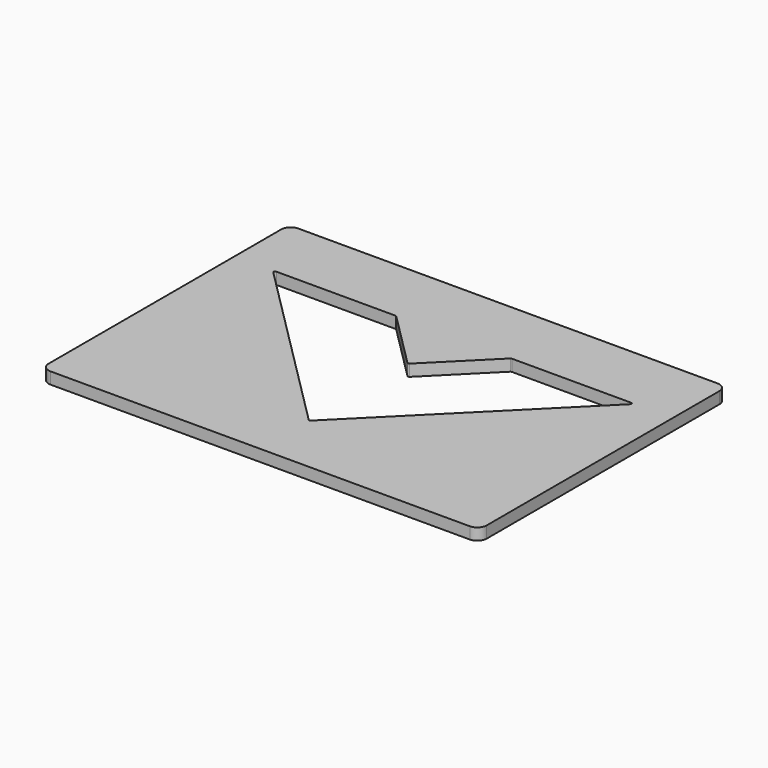
from build123d import *

# Parameters (mm, degrees)
F1_DEPTH = 6.35
F3_DEPTH = 6.351
F5_DEPTH = 6.351


with BuildPart() as f1:
    # F0 (on Top) → F1 (new body)
    with BuildSketch(Plane.XY):
        with BuildLine():
            Line((113.9825, 84.1375), (-113.9825, 84.1375))
            ThreePointArc((-113.9825, 84.1375), (-117.574602, 82.649602), (-119.0625, 79.0575))
            Line((-119.0625, 79.0575), (-119.0625, -79.0575))
            ThreePointArc((-119.0625, -79.0575), (-117.574602, -82.649602), (-113.9825, -84.1375))
            Line((-113.9825, -84.1375), (113.9825, -84.1375))
            ThreePointArc((113.9825, -84.1375), (117.574602, -82.649602), (119.0625, -79.0575))
            Line((119.0625, -79.0575), (119.0625, 79.0575))
            ThreePointArc((119.0625, 79.0575), (117.574602, 82.649602), (113.9825, 84.1375))
        make_face()
    extrude(amount=F1_DEPTH)

    # F2 (on face) → F3 (cut, through all)
    with BuildSketch(Plane.XY.offset(6.35)):
        Polygon((-95.290107, 46.077607), (0, -49.2125), (95.290107, 46.077607), (31.790107, 46.077607), (0, 14.2875), (-31.790107, 46.077607), align=None)
    extrude(amount=-F3_DEPTH, mode=Mode.SUBTRACT)

    # F4 (on face) → F5 (cut, through all)
    with BuildSketch(Plane.XY.offset(6.35)):
        with BuildLine():
            Line((-97.011982, 46.003431), (-0.556776, -50.451775))
            ThreePointArc((-0.556776, -50.451775), (0, -50.682399), (0.556776, -50.451775))
            Line((0.556776, -50.451775), (97.011982, 46.003431))
            ThreePointArc((97.011982, 46.003431), (97.182669, 46.861532), (96.455206, 47.347607))
            Line((96.455206, 47.347607), (31.590207, 47.347607))
            ThreePointArc((31.590207, 47.347607), (31.288882, 47.287669), (31.033431, 47.116983))
            Line((31.033431, 47.116983), (0.556776, 16.640327))
            ThreePointArc((0.556776, 16.640327), (0, 16.409703), (-0.556776, 16.640327))
            Line((-0.556776, 16.640327), (-31.033431, 47.116983))
            ThreePointArc((-31.033431, 47.116983), (-31.288882, 47.287669), (-31.590207, 47.347607))
            Line((-31.590207, 47.347607), (-96.455206, 47.347607))
            ThreePointArc((-96.455206, 47.347607), (-97.182669, 46.861532), (-97.011982, 46.003431))
        make_face()
    extrude(amount=-F5_DEPTH, mode=Mode.SUBTRACT)


solid = f1.part
